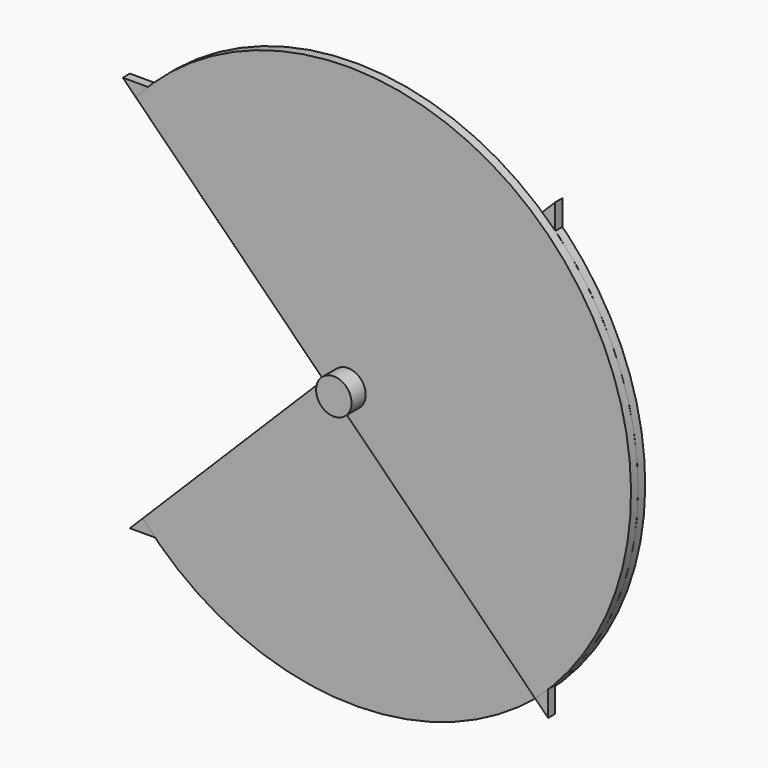
from build123d import *

# Parameters (mm, degrees)
F0_R      = 1.5875
F1_DEPTH  = 3.175
F4_ANGLE  = 90
F6_R      = 6.35
F7_DEPTH  = 6.35
F8_R      = 2.7993516128
F9_DEPTH  = 3.175
F10_ANGLE = -90


with BuildPart() as f1:
    # F0 (on Front) → F1 (new body)
    with BuildSketch(Plane.XZ):
        Polygon((76.2, 76.2), (-76.2, -76.2), (76.2, -76.2), align=None)
        with Locations((4.4901280605, -4.4901280605)):
            Circle(F0_R, mode=Mode.SUBTRACT)
    extrude(amount=F1_DEPTH)


with BuildPart() as f4_1:
    # F4: copy of F1
    add(f1.part.rotate(Axis((4.4901280605, -59.5605373383, -4.4901280605), (0, -1, 0)), F4_ANGLE))


with BuildPart() as f4_1_1:
    # F5: moved
    add(f4_1.part.moved(Location((0, -3.175, 0))))


with BuildPart() as f7:
    # F6 (on face) → F7 (new body)
    with BuildSketch(Plane.XZ.offset(6.35)):
        with Locations((4.4901280605, -4.4901280605)):
            Circle(F6_R)
    extrude(amount=F7_DEPTH)


with BuildPart() as f9:
    # F8 (on face) → F9 (new body)
    with BuildSketch(Plane.XZ.offset(6.35)):
        with BuildLine():
            Line((-71.5691587458, 62.5889026247), (71.5691587458, -80.5494148668))
            ThreePointArc((71.5691587458, -80.5494148668), (76.2, 67.2197438789), (-71.5691587458, 62.5889026247))
        make_face()
        with Locations((4.4901280605, -4.4901280605)):
            Circle(F8_R, mode=Mode.SUBTRACT)
    extrude(amount=-F9_DEPTH)


with BuildPart() as f10_1:
    # F10: copy of F9
    add(f9.part.rotate(Axis((4.4901280605, -59.5605373383, -4.4901280605), (0, -1, 0)), F10_ANGLE))


with BuildPart() as f10_1_1:
    # F11: moved
    add(f10_1.part.moved(Location((0, 3.175, 0))))


solid = Compound([f1.part, f4_1_1.part, f7.part, f9.part, f10_1_1.part])
